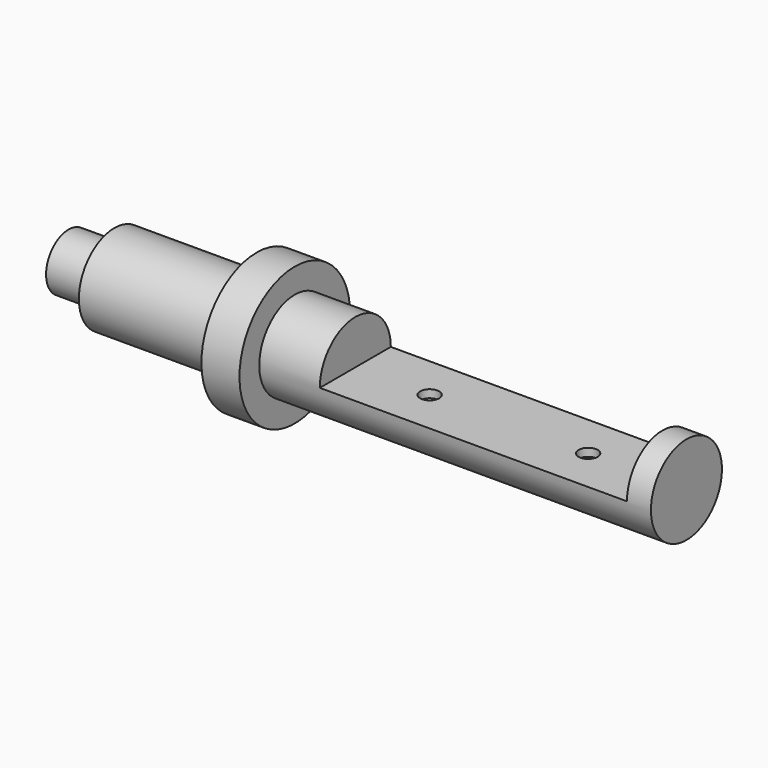
from build123d import *

# Parameters (mm, degrees)
F3_W     = 193.8
F3_H     = 30.8805991608
F2_DEPTH = 65.3571831062
F4_R     = 6
F5_DEPTH = 5


with BuildPart() as f1:
    # F0 (on Front) → F1 (revolve)
    with BuildSketch(Plane.XZ):
        Polygon((-44.3082220923, 17.75), (-44.3082220923, 0), (345.4917779077, 0), (345.4917779077, 28), (98.3917779077, 28), (98.3917779077, 43.6), (74.3917779077, 43.6), (74.3917779077, 28), (-15.4082220923, 28), (-15.4082220923, 17.75), align=None)
    revolve(axis=Axis((24.5496360249, 0, 0), (1, 0, 0)))

    # F3 (on Front) → F2 (cut, symmetric)
    with BuildSketch(Plane.XZ):
        with Locations((233.4917779077, 15.4402995804)):
            Rectangle(F3_W, F3_H)
    extrude(amount=F2_DEPTH, both=True, mode=Mode.SUBTRACT)

    # F4 (on face) → F5 (cut)
    with BuildSketch(Plane.XY):
        with Locations((183.4917779077, 0)):
            Circle(F4_R)
        with Locations((283.4917779077, 0)):
            Circle(F4_R)
    extrude(amount=-F5_DEPTH, mode=Mode.SUBTRACT)


solid = f1.part
